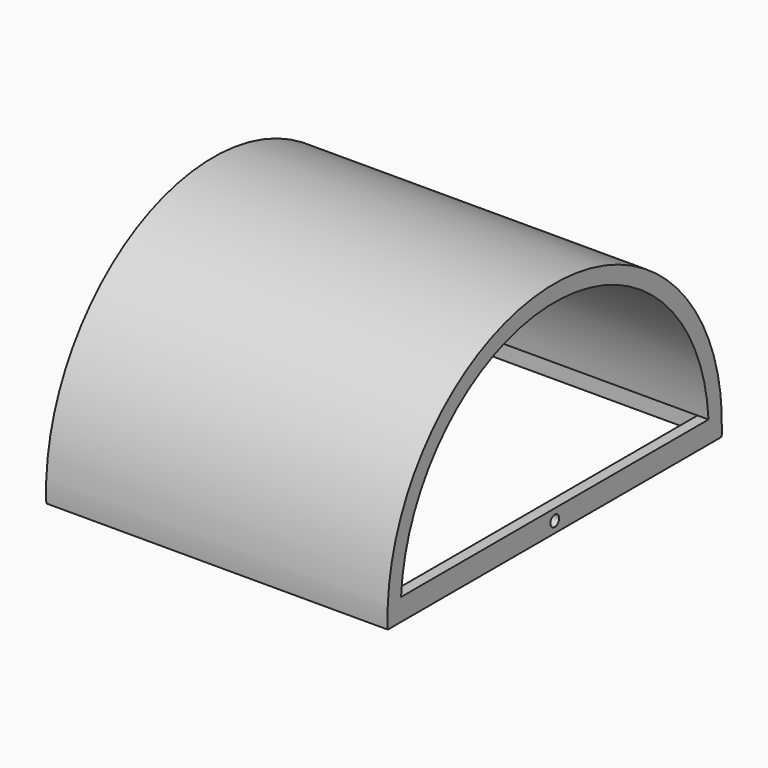
from build123d import *

# Parameters (mm, degrees)
F1_DEPTH = 31.05
F2_W     = 58.1
F2_H     = 73.894663844
F3_DEPTH = 4


with BuildPart() as f1:
    # F0 (on Right) → F1 (new body, symmetric)
    with BuildSketch(Plane.YZ):
        with BuildLine():
            ThreePointArc((-35, 0), (-34.9856996834, 1.0004087475), (-34.9428104193, 2))
            Line((-34.9428104193, 2), (-37.947331922, 2))
            ThreePointArc((-37.947331922, 2), (-37.9868306985, 1.0003466807), (-38, 0))
            Line((-38, 0), (-35, 0))
        make_face()
        with BuildLine():
            ThreePointArc((-34.9428104193, 2), (0, 35), (34.9428104193, 2))
            Line((34.9428104193, 2), (37.947331922, 2))
            ThreePointArc((37.947331922, 2), (0, 38), (-37.947331922, 2))
            Line((-37.947331922, 2), (-34.9428104193, 2))
        make_face()
        with BuildLine():
            Line((1, 0), (35, 0))
            ThreePointArc((35, 0), (34.9856996834, 1.0004087475), (34.9428104193, 2))
            Line((34.9428104193, 2), (-34.9428104193, 2))
            ThreePointArc((-34.9428104193, 2), (-34.9856996834, 1.0004087475), (-35, 0))
            Line((-35, 0), (-1, 0))
            ThreePointArc((-1, 0), (0, 1), (1, 0))
        make_face()
        with BuildLine():
            ThreePointArc((34.9428104193, -2), (34.9856996834, -1.0004087475), (35, 0))
            Line((35, 0), (1, 0))
            ThreePointArc((1, 0), (0, -1), (-1, 0))
            Line((-1, 0), (-35, 0))
            ThreePointArc((-35, 0), (-34.9856996834, -1.0004087475), (-34.9428104193, -2))
            Line((-34.9428104193, -2), (34.9428104193, -2))
        make_face()
        with BuildLine():
            Line((-37.947331922, -2), (-34.9428104193, -2))
            ThreePointArc((-34.9428104193, -2), (-34.9856996834, -1.0004087475), (-35, 0))
            Line((-35, 0), (-38, 0))
            ThreePointArc((-38, 0), (-37.9868306985, -1.0003466807), (-37.947331922, -2))
        make_face()
        with BuildLine():
            Line((37.947331922, 0), (35, 0))
            ThreePointArc((35, 0), (34.9856996834, -1.0004087475), (34.9428104193, -2))
            Line((34.9428104193, -2), (37.947331922, -2))
            ThreePointArc((37.947331922, -2), (37.9868306985, -1.0003466807), (38, 0))
            Line((38, 0), (37.947331922, 0))
        make_face()
        with BuildLine():
            ThreePointArc((34.9428104193, 2), (34.9856996834, 1.0004087475), (35, 0))
            Line((35, 0), (37.947331922, 0))
            Line((37.947331922, 0), (37.947331922, 2))
            Line((37.947331922, 2), (34.9428104193, 2))
        make_face()
    extrude(amount=F1_DEPTH, both=True)

    # F2 (on face) → F3 (cut, through all)
    with BuildSketch(Plane(origin=(0, 0, -2), x_dir=(1, 0, 0), z_dir=(0, 0, -1))):
        Rectangle(F2_W, F2_H)
    extrude(amount=-F3_DEPTH, mode=Mode.SUBTRACT)


solid = f1.part
